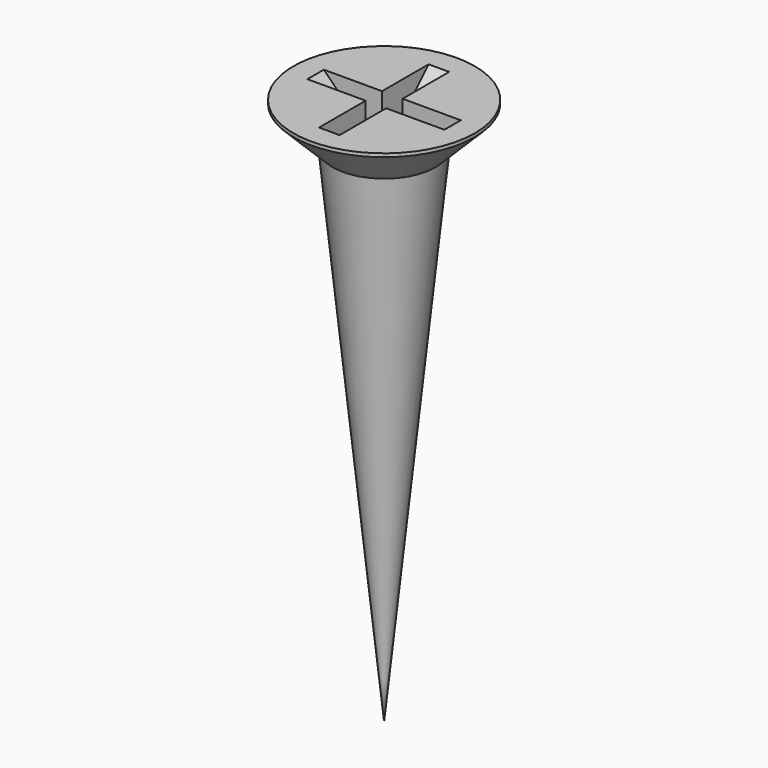
from build123d import *

# Parameters (mm, degrees)
POCKET018_DEPTH       = 0.3
POLARPATTERN001_COUNT = 2
POLARPATTERN001_ANGLE = 90


with BuildPart() as part:
    # Sketch059 → Revolution011 (revolve)
    with BuildSketch(Plane.XZ):
        Polygon((0, 0), (0, -16), (1.5, -1.25), (2.65, -0.1), (2.65, 0), align=None)
    revolve(axis=Axis((0, 0, 0), (0, 0, 1)))

    # Sketch060 → Pocket018 (cut, symmetric)
    with BuildSketch(Plane.XZ):
        Polygon((-2, 0), (0, -2), (2, 0), align=None)
    pocket018 = extrude(amount=POCKET018_DEPTH, both=True, mode=Mode.SUBTRACT)

    # PolarPattern001: Pocket018 ×2 about axis
    polarpattern001_axis = Axis((0, 0, 0), (0, 0, 1))
    for i in range(1, POLARPATTERN001_COUNT):
        add(pocket018.rotate(polarpattern001_axis, i * POLARPATTERN001_ANGLE / (POLARPATTERN001_COUNT - 1)), mode=Mode.SUBTRACT)


solid = part.part
